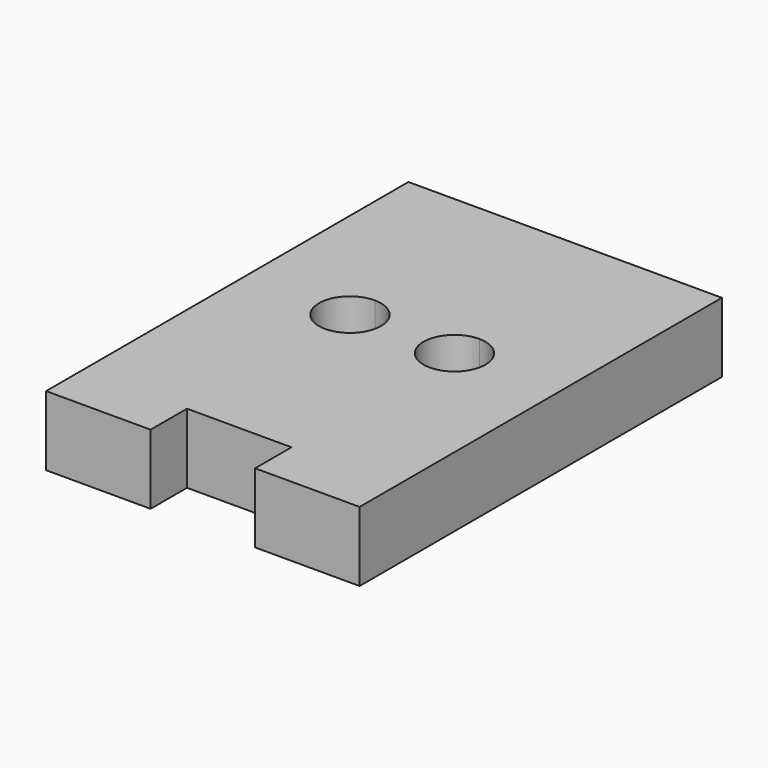
from build123d import *

# Parameters (mm, degrees)
F1_DEPTH = 5


with BuildPart() as f1:
    # F0 (on Top) → F1 (new body, symmetric)
    with BuildSketch(Plane.XY):
        with BuildLine():
            Line((7.5, 29.233247), (-7.5, 29.233247))
            Line((-7.5, 29.233247), (-7.5, 4.45))
            ThreePointArc((-7.5, 4.45), (-4.353375, 3.146625), (-3.05, 0))
            ThreePointArc((-3.05, 0), (-4.353375, -3.146625), (-7.5, -4.45))
            Line((-7.5, -4.45), (-7.5, -29.233247))
            Line((-7.5, -29.233247), (7.5, -29.233247))
            Line((7.5, -29.233247), (7.5, -4.45))
            ThreePointArc((7.5, -4.45), (3.05, 0), (7.5, 4.45))
            Line((7.5, 4.45), (7.5, 29.233247))
        make_face()
        with BuildLine():
            Line((-7.5, 4.45), (-7.5, 29.233247))
            Line((-7.5, 29.233247), (-22.5, 29.233247))
            Line((-22.5, 29.233247), (-22.5, -35.766753))
            Line((-22.5, -35.766753), (-7.5, -35.766753))
            Line((-7.5, -35.766753), (-7.5, -29.233247))
            Line((-7.5, -29.233247), (-7.5, -4.45))
            ThreePointArc((-7.5, -4.45), (-11.95, 0), (-7.5, 4.45))
        make_face()
        with BuildLine():
            Line((22.5, 29.233247), (7.5, 29.233247))
            Line((7.5, 29.233247), (7.5, 4.45))
            ThreePointArc((7.5, 4.45), (10.646625, 3.146625), (11.95, 0))
            ThreePointArc((11.95, 0), (10.646625, -3.146625), (7.5, -4.45))
            Line((7.5, -4.45), (7.5, -29.233247))
            Line((7.5, -29.233247), (7.5, -35.766753))
            Line((7.5, -35.766753), (22.5, -35.766753))
            Line((22.5, -35.766753), (22.5, 29.233247))
        make_face()
    extrude(amount=F1_DEPTH, both=True)


solid = f1.part
